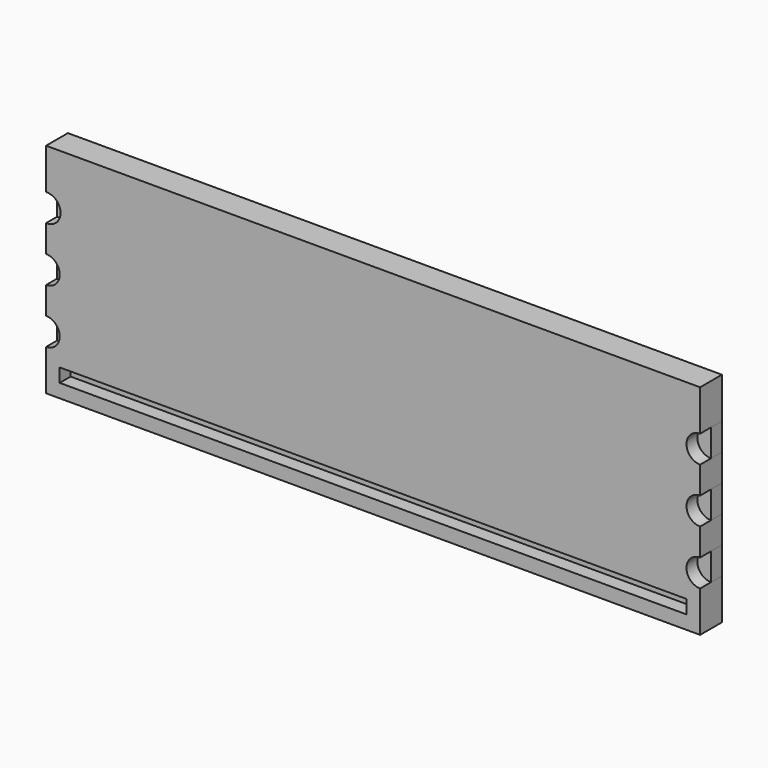
from build123d import *

# Parameters (mm, degrees)
F0_W     = 292.1
F0_H     = 6.35
F1_DEPTH = 6.35
F2_DEPTH = 6.35
F3_DEPTH = 12.7


with BuildPart() as f1:
    # F0 (on Front) → F1 (new body)
    with BuildSketch(Plane.XZ):
        with Locations((64.085933, -25.380944)):
            Rectangle(F0_W, F0_H)
    extrude(amount=F1_DEPTH)


with BuildPart() as f2:
    # F0 (on Front) → F2 (new body)
    with BuildSketch(Plane.XZ):
        with BuildLine():
            ThreePointArc((-88.314067, -15.855944), (-81.964067, -9.505944), (-88.314067, -3.155944))
            Line((-88.314067, -3.155944), (-88.314067, -15.855944))
        make_face()
        with BuildLine():
            ThreePointArc((-88.314067, 9.544056), (-81.964067, 15.894056), (-88.314067, 22.244056))
            Line((-88.314067, 22.244056), (-88.314067, 9.544056))
        make_face()
        with BuildLine():
            ThreePointArc((-88.314067, 34.944056), (-81.561473, 41.294056), (-88.314067, 47.644056))
            Line((-88.314067, 47.644056), (-88.314067, 34.944056))
        make_face()
        with BuildLine():
            Line((216.485933, 34.944056), (216.485933, 47.644056))
            ThreePointArc((216.485933, 47.644056), (210.135933, 41.294056), (216.485933, 34.944056))
        make_face()
        with BuildLine():
            Line((216.485933, 9.544056), (216.485933, 22.244056))
            ThreePointArc((216.485933, 22.244056), (210.135933, 15.894056), (216.485933, 9.544056))
        make_face()
        with BuildLine():
            Line((216.485933, -15.855944), (216.485933, -3.155944))
            ThreePointArc((216.485933, -3.155944), (210.135933, -9.505944), (216.485933, -15.855944))
        make_face()
    extrude(amount=F2_DEPTH)


with BuildPart() as f3:
    # F0 (on Front) → F3 (new body)
    with BuildSketch(Plane.XZ):
        with BuildLine():
            Line((216.485933, 66.694056), (-88.314067, 66.694056))
            Line((-88.314067, 66.694056), (-88.314067, 47.644056))
            ThreePointArc((-88.314067, 47.644056), (-81.561473, 41.294056), (-88.314067, 34.944056))
            Line((-88.314067, 34.944056), (-88.314067, 22.244056))
            ThreePointArc((-88.314067, 22.244056), (-81.964067, 15.894056), (-88.314067, 9.544056))
            Line((-88.314067, 9.544056), (-88.314067, -3.155944))
            ThreePointArc((-88.314067, -3.155944), (-81.964067, -9.505944), (-88.314067, -15.855944))
            Line((-88.314067, -15.855944), (-88.314067, -34.905944))
            Line((-88.314067, -34.905944), (216.485933, -34.905944))
            Line((216.485933, -34.905944), (216.485933, -15.855944))
            ThreePointArc((216.485933, -15.855944), (210.135933, -9.505944), (216.485933, -3.155944))
            Line((216.485933, -3.155944), (216.485933, 9.544056))
            ThreePointArc((216.485933, 9.544056), (210.135933, 15.894056), (216.485933, 22.244056))
            Line((216.485933, 22.244056), (216.485933, 34.944056))
            ThreePointArc((216.485933, 34.944056), (210.135933, 41.294056), (216.485933, 47.644056))
            Line((216.485933, 47.644056), (216.485933, 66.694056))
        make_face()
        with Locations((64.085933, -25.380944)):
            Rectangle(F0_W, F0_H, mode=Mode.SUBTRACT)
    extrude(amount=F3_DEPTH)


solid = Compound([f1.part, f2.part, f3.part])
